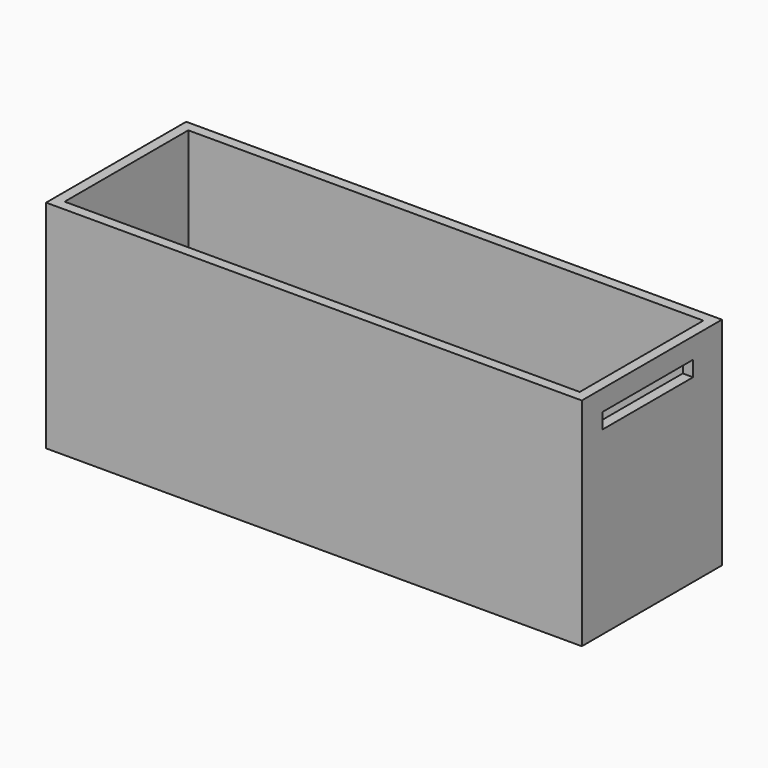
from build123d import *

# Parameters (mm, degrees)
SKETCH_W          = 100
SKETCH_H          = 30
PAD_DEPTH         = 40
THICKNESS_T       = 2
THICKNESS_FACE5_W = 30
THICKNESS_FACE5_H = 100
PAD001_DEPTH      = 3
SKETCH001_R       = 2.25
PAD002_DEPTH      = 1
HOLE_D            = 3.4
HOLE_DEPTH        = 25
HOLE_CBORE_D      = 6.1
HOLE_CBORE_DEPTH  = 2
SKETCH003_W       = 22
SKETCH003_H       = 3
POCKET_DEPTH      = 2
SKETCH004_R       = 3.1
SKETCH004_W       = 11
SKETCH004_H       = 6
POCKET001_DEPTH   = 2


with BuildPart() as part:
    # Sketch → Pad (new body)
    with BuildSketch(Plane.XY):
        Rectangle(SKETCH_W, SKETCH_H)
    extrude(amount=PAD_DEPTH)

    # Thickness
    thickness_openings = [part.faces().sort_by_distance(p)[0] for p in [
        (0, 0, 40),
    ]]
    offset(amount=THICKNESS_T, openings=thickness_openings, kind=Kind.INTERSECTION)

    # Thickness Face5 → Pad001 (add)
    with BuildSketch(Plane(origin=(0, 0, 0), x_dir=(0, 1, 0), z_dir=(0, 0, 1))):
        Rectangle(THICKNESS_FACE5_W, THICKNESS_FACE5_H)
    extrude(amount=PAD001_DEPTH)

    # Sketch001 (on Face2 of Pad001) → Pad002 (join)
    with BuildSketch(Plane.XY.offset(3)):
        with Locations((-47, 12)):
            Circle(SKETCH001_R)
        with Locations((0, 12)):
            Circle(SKETCH001_R)
        with Locations((7, 12)):
            Circle(SKETCH001_R)
        with Locations((36, 12)):
            Circle(SKETCH001_R)
        with Locations((-47, -12)):
            Circle(SKETCH001_R)
        with Locations((0, -12)):
            Circle(SKETCH001_R)
        with Locations((7, -12)):
            Circle(SKETCH001_R)
        with Locations((36, -12)):
            Circle(SKETCH001_R)
    extrude(amount=PAD002_DEPTH)

    # Hole
    with Locations(Plane(origin=(0, 0, -2), x_dir=(1, 0, 0), z_dir=(0, 0, -1))):
        with Locations((-47, 12), (0, 12), (7, 12), (36, 12), (-47, -12), (0, -12), (7, -12), (36, -12)):
            CounterBoreHole(HOLE_D / 2, HOLE_CBORE_D / 2, HOLE_CBORE_DEPTH, depth=HOLE_DEPTH)

    # Sketch003 (on Face18 of Hole) → Pocket (cut)
    with BuildSketch(Plane.YZ.offset(52)):
        with Locations((-1, 34.5)):
            Rectangle(SKETCH003_W, SKETCH003_H)
    extrude(amount=-POCKET_DEPTH, mode=Mode.SUBTRACT)

    # Sketch004 (on Face20 of Pocket) → Pocket001 (cut)
    with BuildSketch(Plane(origin=(-52, 0, 0), x_dir=(0, -1, 0), z_dir=(-1, 0, 0))):
        with Locations((0, 26)):
            Circle(SKETCH004_R)
        with Locations((0.5, 7)):
            Rectangle(SKETCH004_W, SKETCH004_H)
    extrude(amount=-POCKET001_DEPTH, mode=Mode.SUBTRACT)


solid = part.part
